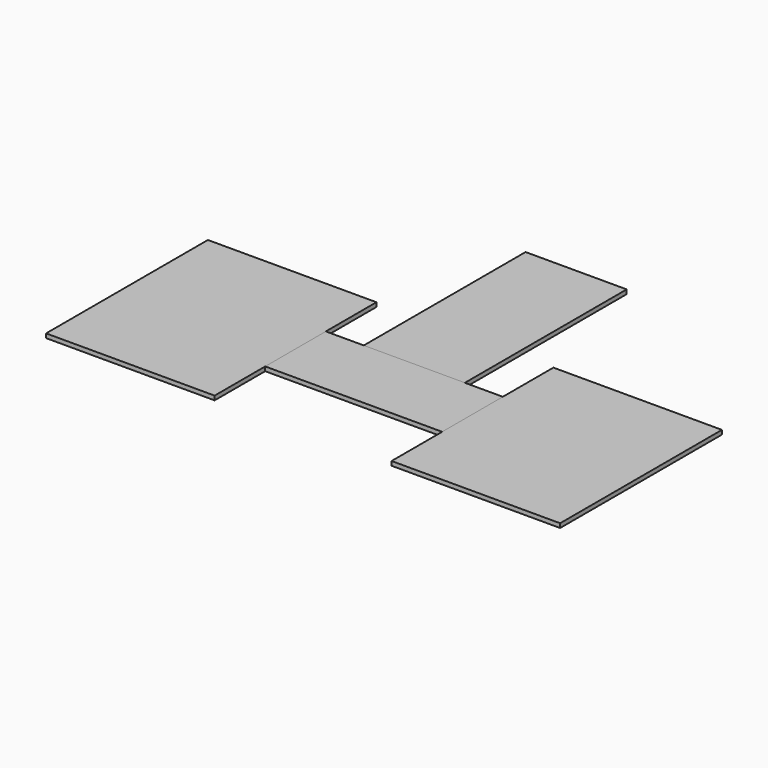
from build123d import *

# Parameters (mm, degrees)
F0_W     = 1066.8
F0_H     = 457.2
F1_DEPTH = 25.4
F2_W     = 1016
F2_H     = 1219.2
F3_DEPTH = 25.4
F4_W     = 609.6
F4_H     = 1219.2
F5_DEPTH = 25.4


with BuildPart() as f1:
    # F0 (on Top) → F1 (new body)
    with BuildSketch(Plane.XY):
        with Locations((533.4, 228.6)):
            Rectangle(F0_W, F0_H)
    extrude(amount=F1_DEPTH)


with BuildPart() as f3:
    # F2 (on face) → F3 (new body)
    with BuildSketch(Plane.XY.offset(25.4)):
        with Locations((-508, 228.6)):
            Rectangle(F2_W, F2_H)
        with Locations((1574.8, 228.6)):
            Rectangle(F2_W, F2_H)
    extrude(amount=-F3_DEPTH)


with BuildPart() as f5:
    # F4 (on face) → F5 (new body)
    with BuildSketch(Plane.XY.offset(25.4)):
        with Locations((533.4, 1066.8)):
            Rectangle(F4_W, F4_H)
    extrude(amount=-F5_DEPTH)


solid = Compound([f1.part, f3.part, f5.part])
